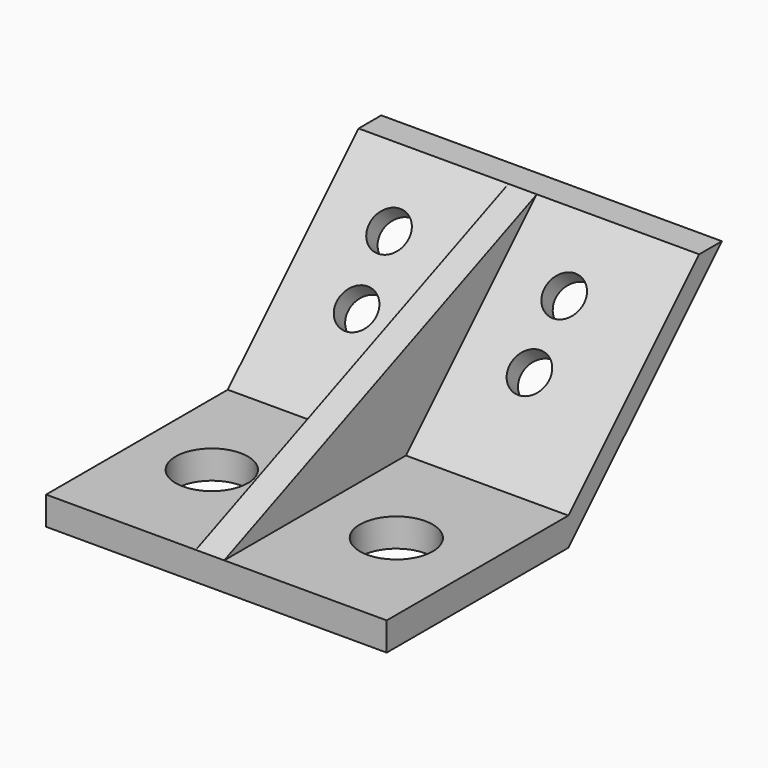
from build123d import *

# Parameters (mm, degrees)
F0_W      = 80
F0_H      = 10
F1_DEPTH  = 60
F2_W      = 10
F2_H      = 137.5997612298
F3_DEPTH  = 62.5
F5_DEPTH  = 25
F7_DEPTH  = 25
F8_R      = 7
F9_DEPTH  = 54.8723173841
F10_R     = 12.8351278785
F11_DEPTH = 10.001
F12_R     = 12.7228131032
F13_DEPTH = 10.001


with BuildPart() as f1:
    # F0 (on Right) → F1 (new body, symmetric)
    with BuildSketch(Plane.YZ):
        Rectangle(F0_W, F0_H)
        Polygon((40, 5), (40, -5), (107.5997612298, 62.5997612298), (97.5997612298, 62.5997612298), align=None)
    extrude(amount=F1_DEPTH, both=True)

    # F2 (on Top) → F3 (join)
    with BuildSketch(Plane.XY):
        with Locations((-2.2415908799, 28.7998806149)):
            Rectangle(F2_W, F2_H)
    extrude(amount=F3_DEPTH)

    # F4 (on face) → F5 (cut)
    with BuildSketch(Plane.YZ.offset(2.7584091201)):
        Polygon((-40, 62.5), (-40, 5), (97.5, 62.5), align=None)
    extrude(amount=-F5_DEPTH, mode=Mode.SUBTRACT)

    # F6 (on face) → F7 (cut)
    with BuildSketch(Plane.YZ.offset(2.7584091201)):
        Polygon((97.5997612298, 52.5997612298), (45, 0), (97.5997612298, 0), align=None)
    extrude(amount=-F7_DEPTH, mode=Mode.SUBTRACT)

    # F8 (on face) → F9 (cut, through all)
    with BuildSketch(Plane(origin=(0, 17.5, -17.5), x_dir=(1, 0, 0), z_dir=(0, -0.7071067812, 0.7071067812))):
        with Locations((26.0520085543, 89.2042198464)):
            Circle(F8_R)
        with Locations((27.1440549599, 65.627058422)):
            Circle(F8_R)
        with Locations((-35.6482013747, 89.2042198464)):
            Circle(F8_R)
        with Locations((-33.7371340773, 65.627058422)):
            Circle(F8_R)
    extrude(amount=-F9_DEPTH, mode=Mode.SUBTRACT)

    # F10 (on face) → F11 (cut, through all)
    with BuildSketch(Plane.XY.offset(5)):
        with Locations((31.3792045601, 0)):
            Circle(F10_R)
    extrude(amount=-F11_DEPTH, mode=Mode.SUBTRACT)

    # F12 (on face) → F13 (cut, through all)
    with BuildSketch(Plane.XY.offset(5)):
        with Locations((-33.6207954399, 0)):
            Circle(F12_R)
    extrude(amount=-F13_DEPTH, mode=Mode.SUBTRACT)


solid = f1.part
